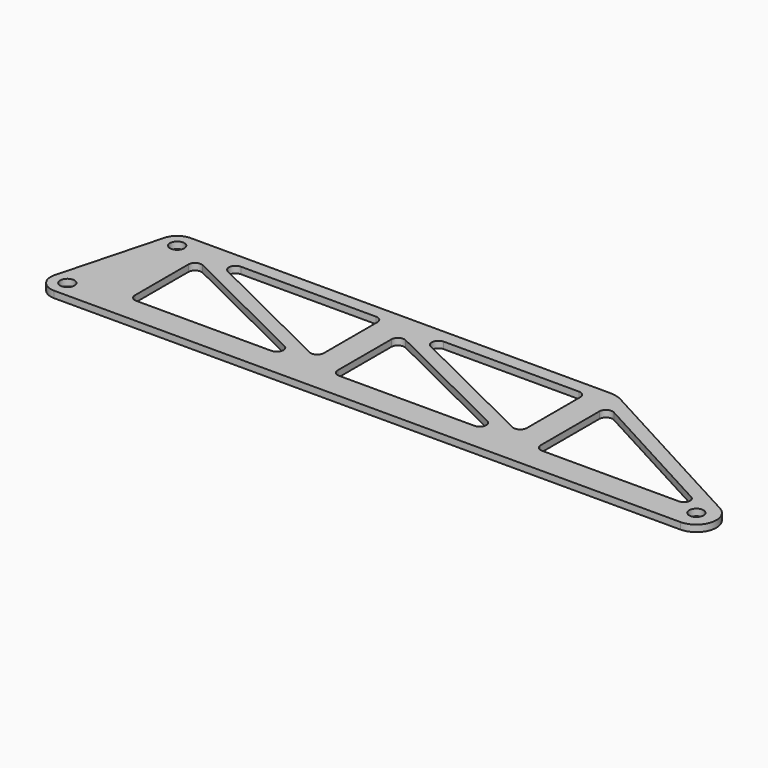
from build123d import *

# Parameters (mm, degrees)
SKETCH_R            = 2.15
PAD_DEPTH           = 2
POCKET_DEPTH        = 0.001
POCKET_DEPTH_BACK   = 2.001
LINEARPATTERN_COUNT = 2
LINEARPATTERN_PITCH = 61


with BuildPart() as part:
    # Sketch → Pad (new body)
    with BuildSketch(Plane.XY):
        with BuildLine():
            ThreePointArc((0, 5), (-3.043807, 3.966767), (-4.829629, 1.294095))
            Line((-13.111839, -29.615531), (-4.829629, 1.294095))
            ThreePointArc((-13.111839, -29.615531), (-12.248976, -33.953434), (-8.282209, -35.909626))
            Line((180, -35.909626), (-8.282209, -35.909626))
            ThreePointArc((180, -35.909626), (185.815743, -31.385138), (182.860399, -24.635338))
            Line((182.860399, -24.635338), (130, 4.032384))
            ThreePointArc((130, 4.032384), (128.153484, 4.754324), (126.186135, 5))
            Line((0, 5), (126.186135, 5))
        make_face()
        Circle(SKETCH_R, mode=Mode.SUBTRACT)
        with Locations((180, -29.909626)):
            Circle(SKETCH_R, mode=Mode.SUBTRACT)
        with Locations((-8.282209, -30.909626)):
            Circle(SKETCH_R, mode=Mode.SUBTRACT)
        with BuildLine():
            ThreePointArc((173.149083, -27.909626), (174.958635, -26.501845), (174.039088, -24.401663))
            Line((132.953466, -2.119743), (174.039088, -24.401663))
            ThreePointArc((132.953466, -2.119743), (130.976998, -2.159274), (130, -3.877839))
            Line((130, -25.909626), (130, -3.877839))
            ThreePointArc((130, -25.909626), (130.585786, -27.32384), (132, -27.909626))
            Line((132, -27.909626), (173.149083, -27.909626))
        make_face(mode=Mode.SUBTRACT)
    extrude(amount=PAD_DEPTH)

    # Sketch_1 → Pocket (cut, two sides)
    with BuildSketch(Plane.XY) as pocket_sk:
        with BuildLine():
            Line((10.886302, -4.012607), (51.55478, -24.116733))
            ThreePointArc((50.668478, -27.909626), (52.616013, -26.364716), (51.55478, -24.116733))
            Line((50.668478, -27.909626), (10, -27.909626))
            ThreePointArc((8, -25.909626), (8.585786, -27.32384), (10, -27.909626))
            Line((8, -25.909626), (8, -5.805501))
            ThreePointArc((10.886302, -4.012607), (8.944681, -4.106589), (8, -5.805501))
        make_face()
        with BuildLine():
            Line((17.44522, -2.792894), (58.113698, -22.897019))
            ThreePointArc((58.113698, -22.897019), (60.055319, -22.803037), (61, -21.104125))
            Line((61, -21.104125), (61, -1))
            ThreePointArc((61, -1), (60.414214, 0.414214), (59, 1))
            Line((59, 1), (18.331522, 1))
            ThreePointArc((18.331522, 1), (16.383987, -0.544911), (17.44522, -2.792894))
        make_face()
    pocket = extrude(amount=-POCKET_DEPTH, mode=Mode.SUBTRACT) + extrude(pocket_sk.sketch, amount=POCKET_DEPTH_BACK, mode=Mode.SUBTRACT)

    # LinearPattern: Pocket ×2
    with Locations(*[(i * LINEARPATTERN_PITCH, 0, 0) for i in range(1, LINEARPATTERN_COUNT)]):
        add(pocket, mode=Mode.SUBTRACT)


solid = part.part
